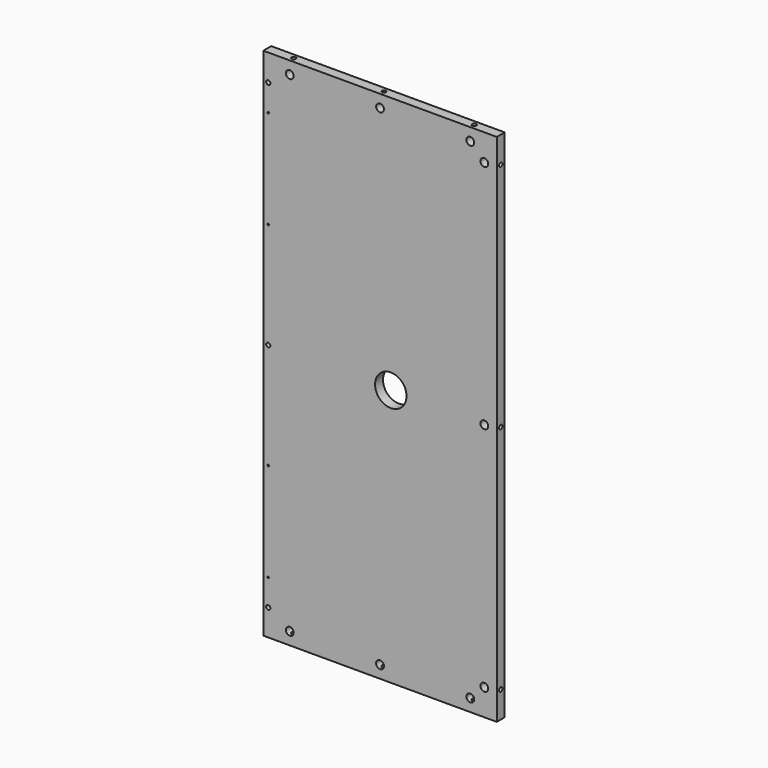
from build123d import *

# Parameters (mm, degrees)
F0_W      = 447.7258
F0_H      = 987.425
F1_DEPTH  = 19.05
F3_D      = 8.001
F3_DEPTH  = 25.4
F3_TIP    = 2.4037429064
F4_R      = 30.1625
F5_DEPTH  = 25.4
F6_D      = 15.0114
F6_DEPTH  = 14.224
F6_TIP    = 4.5098795482
F8_D      = 8.001
F8_DEPTH  = 25.4
F8_TIP    = 2.4037429064
F10_D     = 8.001
F10_DEPTH = 25.4
F10_TIP   = 2.4037429064
F12_D     = 8.001
F12_DEPTH = 25.4
F12_TIP   = 2.4037429064
F13_D     = 3.175
F13_DEPTH = 25.4
F13_TIP   = 0.9538662327


with BuildPart() as f1:
    # F0 (on Front) → F1 (new body)
    with BuildSketch(Plane.XZ):
        Rectangle(F0_W, F0_H)
    extrude(amount=F1_DEPTH)

    # F3
    with Locations(Plane.XZ.offset(19.05)):
        with Locations((-214.3379, 442.9125), (-214.3379, 0), (-214.3379, -442.9125)):
            Hole(F3_D / 2, depth=F3_DEPTH)
            with Locations((0, 0, -(F3_DEPTH + F3_TIP / 2))):  # 118° drill point
                Cone(0, F3_D / 2, F3_TIP, mode=Mode.SUBTRACT)

    # F4 (on face) → F5 (cut)
    with BuildSketch(Plane.XZ.offset(19.05)):
        with Locations((20.6629, 0)):
            Circle(F4_R)
    extrude(amount=-F5_DEPTH, mode=Mode.SUBTRACT)

    # F6
    with Locations(Plane.XZ.offset(19.05)):
        with Locations((-173.0629, 469.8365), (0, 469.8365), (173.0629, 469.8365), (199.9869, 442.9125), (199.9869, 0), (199.9869, -442.9125), (173.0629, -469.8365), (0, -469.8365), (-173.0629, -469.8365)):
            Hole(F6_D / 2, depth=F6_DEPTH)
            with Locations((0, 0, -(F6_DEPTH + F6_TIP / 2))):  # 118° drill point
                Cone(0, F6_D / 2, F6_TIP, mode=Mode.SUBTRACT)

    # F8
    with Locations(Plane(origin=(0, 0, -493.7125), x_dir=(1, 0, 0), z_dir=(0, 0, -1))):
        with Locations((-173.0629, 9.525), (0, 9.525), (173.0629, 9.525)):
            Hole(F8_D / 2, depth=F8_DEPTH)
            with Locations((0, 0, -(F8_DEPTH + F8_TIP / 2))):  # 118° drill point
                Cone(0, F8_D / 2, F8_TIP, mode=Mode.SUBTRACT)

    # F10
    with Locations(Plane.XY.offset(493.7125)):
        with Locations((-173.0629, -9.525), (0, -9.525), (173.0629, -9.525)):
            Hole(F10_D / 2, depth=F10_DEPTH)
            with Locations((0, 0, -(F10_DEPTH + F10_TIP / 2))):  # 118° drill point
                Cone(0, F10_D / 2, F10_TIP, mode=Mode.SUBTRACT)

    # F12
    with Locations(Plane.YZ.offset(223.8629)):
        with Locations((-9.525, 0), (-9.525, -442.9125), (-9.525, 442.9125)):
            Hole(F12_D / 2, depth=F12_DEPTH)
            with Locations((0, 0, -(F12_DEPTH + F12_TIP / 2))):  # 118° drill point
                Cone(0, F12_D / 2, F12_TIP, mode=Mode.SUBTRACT)

    # F13
    with Locations(Plane.XZ.offset(19.05)):
        with Locations((-214.3379, 392.1125), (-214.3379, 203.2), (-214.3379, -203.2), (-214.3379, -392.1125)):
            Hole(F13_D / 2, depth=F13_DEPTH)
            with Locations((0, 0, -(F13_DEPTH + F13_TIP / 2))):  # 118° drill point
                Cone(0, F13_D / 2, F13_TIP, mode=Mode.SUBTRACT)


solid = f1.part
